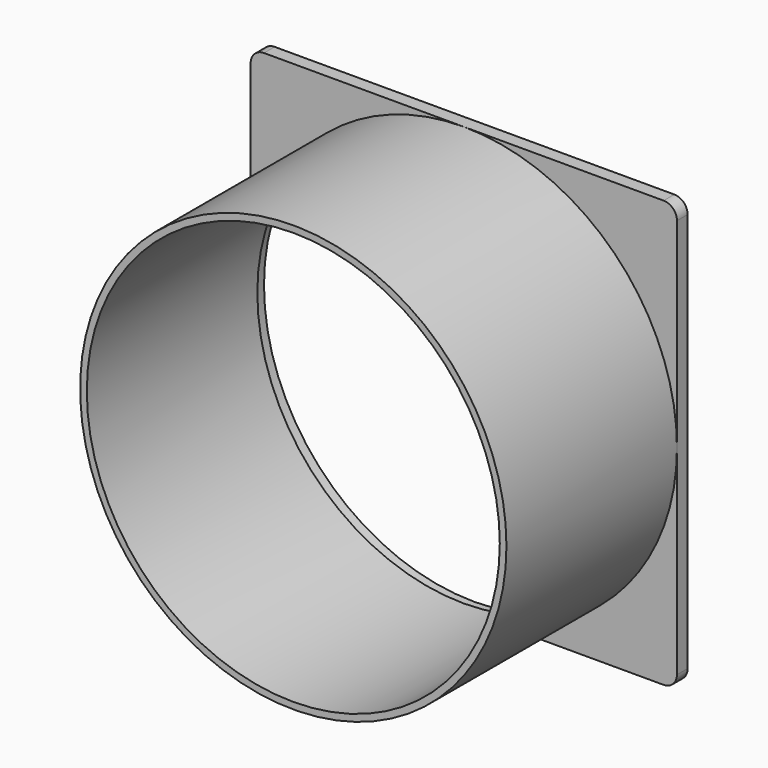
from build123d import *

# Parameters (mm, degrees)
F0_R     = 50.165
F1_DEPTH = 3.175
F2_R     = 50.8
F2_R_2   = 49.2125
F3_DEPTH = 50.8


with BuildPart() as f1:
    # F0 (on Front) → F1 (new body)
    with BuildSketch(Plane.XZ):
        with BuildLine():
            ThreePointArc((50.8, 47.625), (49.870064, 49.870064), (47.625, 50.8))
            Line((47.625, 50.8), (-47.625, 50.8))
            ThreePointArc((-47.625, 50.8), (-49.870064, 49.870064), (-50.8, 47.625))
            Line((-50.8, 47.625), (-50.8, -47.625))
            ThreePointArc((-50.8, -47.625), (-49.870064, -49.870064), (-47.625, -50.8))
            Line((-47.625, -50.8), (47.625, -50.8))
            ThreePointArc((47.625, -50.8), (49.870064, -49.870064), (50.8, -47.625))
            Line((50.8, -47.625), (50.8, 47.625))
        make_face()
        Circle(F0_R, mode=Mode.SUBTRACT)
    extrude(amount=F1_DEPTH)

    # F2 (on face) → F3 (join)
    with BuildSketch(Plane.XZ.offset(3.175)):
        Circle(F2_R)
        Circle(F2_R_2, mode=Mode.SUBTRACT)
    extrude(amount=F3_DEPTH)


solid = f1.part
